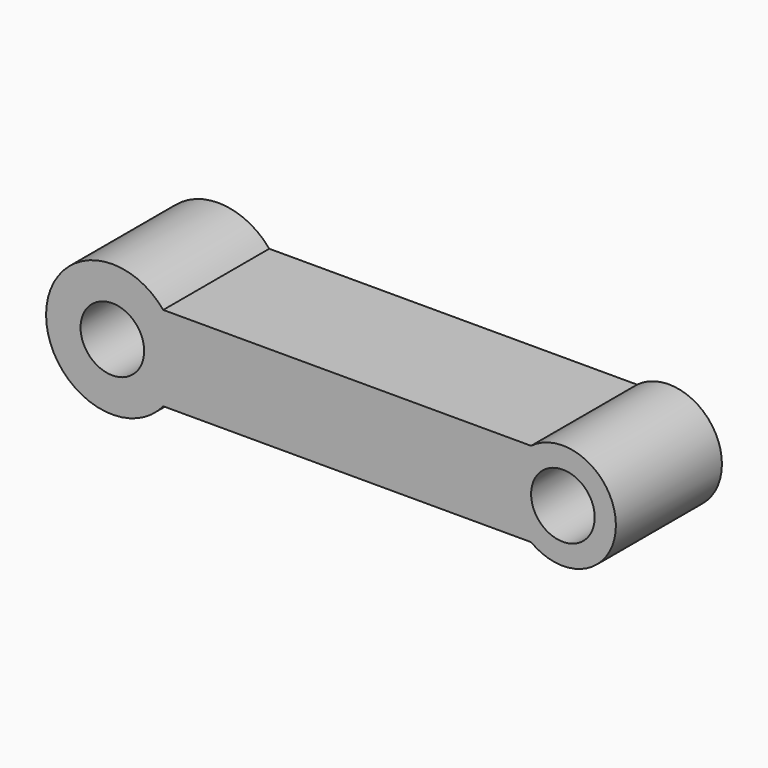
from build123d import *

# Parameters (mm, degrees)
F0_R     = 6
F1_DEPTH = 25


with BuildPart() as f1:
    # F0 (on Front) → F1 (new body)
    with BuildSketch(Plane.XZ):
        with BuildLine():
            ThreePointArc((9.6046863561, -8), (11.7539052968, -4.2539052968), (12.5, 0))
            ThreePointArc((12.5, 0), (11.7539052968, 4.2539052968), (9.6046863561, 8))
            ThreePointArc((9.6046863561, 8), (-12.5, 0), (9.6046863561, -8))
        make_face()
        Circle(F0_R, mode=Mode.SUBTRACT)
        with BuildLine():
            Line((75, 0), (12.5, 0))
            ThreePointArc((12.5, 0), (11.7539052968, -4.2539052968), (9.6046863561, -8))
            Line((9.6046863561, -8), (79, -8))
            ThreePointArc((79, -8), (76.05572809, -4.472135955), (75, 0))
        make_face()
        with BuildLine():
            ThreePointArc((9.6046863561, 8), (11.7539052968, 4.2539052968), (12.5, 0))
            Line((12.5, 0), (75, 0))
            ThreePointArc((75, 0), (76.05572809, 4.472135955), (79, 8))
            Line((79, 8), (9.6046863561, 8))
        make_face()
        with BuildLine():
            ThreePointArc((79, 8), (76.05572809, 4.472135955), (75, 0))
            ThreePointArc((75, 0), (76.05572809, -4.472135955), (79, -8))
            ThreePointArc((79, -8), (89.472135955, -8.94427191), (95, 0))
            ThreePointArc((95, 0), (89.472135955, 8.94427191), (79, 8))
        make_face()
        with BuildLine():
            ThreePointArc((91, 0), (85, -6), (79, 0))
            ThreePointArc((79, 0), (85, 6), (91, 0))
        make_face(mode=Mode.SUBTRACT)
    extrude(amount=F1_DEPTH)


solid = f1.part
